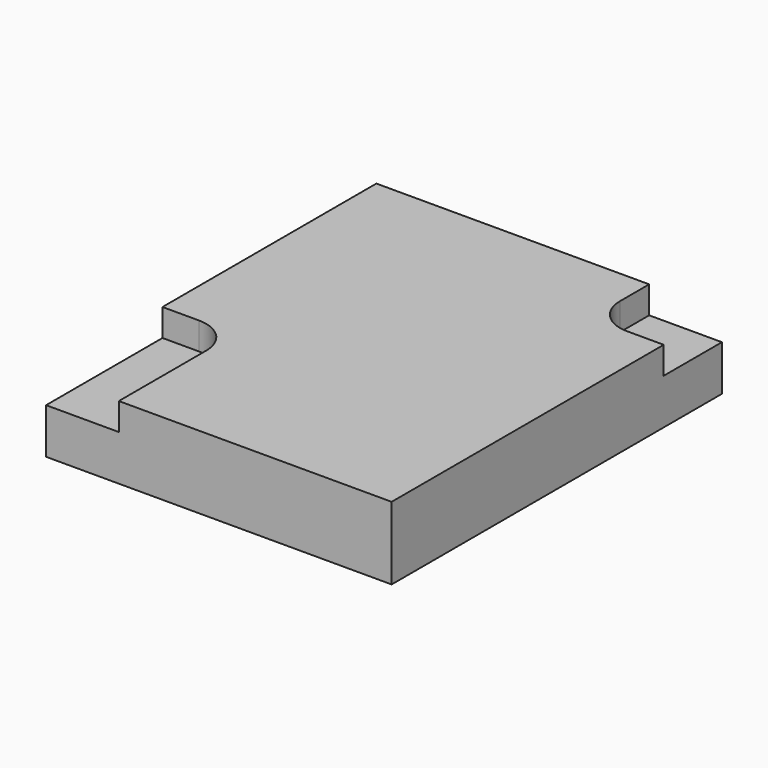
from build123d import *

# Parameters (mm, degrees)
SKETCH001_W     = 9.5
SKETCH001_H     = 11.35
PAD002_DEPTH    = 2
POCKET_DEPTH    = 0.75
POCKET001_DEPTH = 0.75


with BuildPart() as part:
    # Sketch001 → Pad002 (new body)
    with BuildSketch(Plane.XY.offset(5.5)):
        with Locations((0, -0.825)):
            Rectangle(SKETCH001_W, SKETCH001_H)
    extrude(amount=PAD002_DEPTH)

    # Sketch003 → Pocket (cut)
    with BuildSketch(Plane.XY.offset(7.5)):
        with BuildLine():
            Line((2.75, 4.85), (4.75, 4.85))
            Line((4.75, 4.85), (4.75, 2.85))
            Line((4.75, 2.85), (3.75, 2.85))
            ThreePointArc((2.75, 3.85), (3.042893, 3.142893), (3.75, 2.85))
            Line((2.75, 3.85), (2.75, 4.85))
        make_face()
    extrude(amount=-POCKET_DEPTH, mode=Mode.SUBTRACT)

    # Sketch004 → Pocket001 (cut)
    with BuildSketch(Plane.XY.offset(7.5)):
        with BuildLine():
            Line((-4.75, -2.5), (-3.75, -2.5))
            ThreePointArc((-2.75, -3.5), (-3.042893, -2.792893), (-3.75, -2.5))
            Line((-2.75, -3.5), (-2.75, -6.5))
            Line((-2.75, -6.5), (-4.75, -6.5))
            Line((-4.75, -6.5), (-4.75, -2.5))
        make_face()
    extrude(amount=-POCKET001_DEPTH, mode=Mode.SUBTRACT)


solid = part.part
